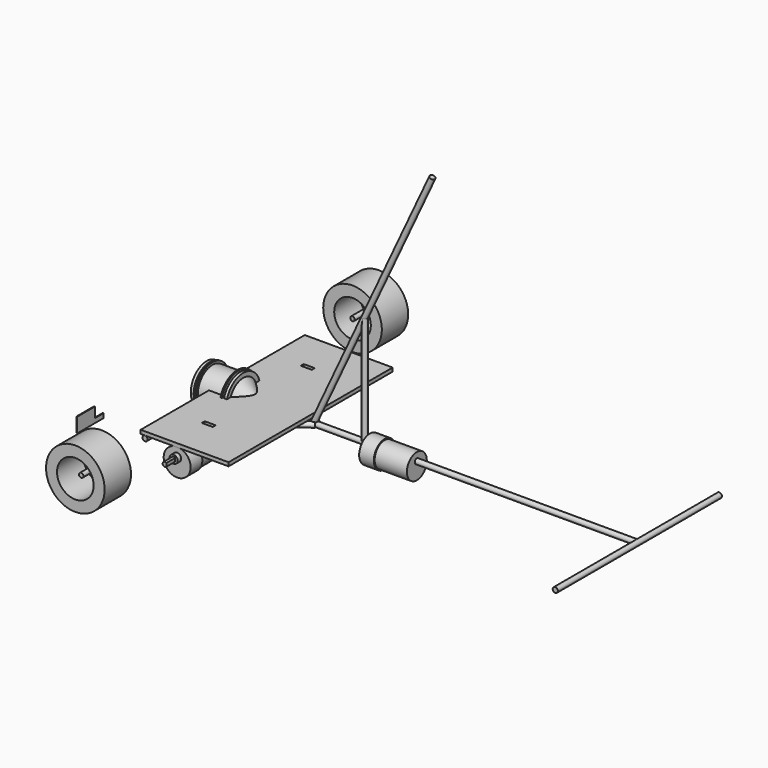
from build123d import *

# Parameters (mm, degrees)
CYLINDER001_R               = 3.5
CYLINDER001_DEPTH           = 280
CYLINDER001_ROLL_ANGLE      = 90
CYLINDER003_R               = 3.5
CYLINDER003_DEPTH           = 150
CYLINDER003_PITCH_ANGLE     = 90
CYLINDER003_PLACEMENT_ANGLE = 36
CYLINDER002_R               = 3.5
CYLINDER002_DEPTH           = 280
CYLINDER002_ROLL_ANGLE      = 90
CYLINDER004_R               = 3.5
CYLINDER004_DEPTH           = 150
CYLINDER004_PITCH_ANGLE     = 90
CYLINDER004_PLACEMENT_ANGLE = -36
CYLINDER005_R               = 3.5
CYLINDER005_DEPTH           = 150
CYLINDER006_R               = 3.5
CYLINDER006_DEPTH           = 384
CYLINDER006_PLACEMENT_ANGLE = 25
CYLINDER_R                  = 3.5
CYLINDER_DEPTH              = 560
CYLINDER_PITCH_ANGLE        = 90
CYLINDER014_R               = 17
CYLINDER014_DEPTH           = 14
CYLINDER015_R               = 5.5
CYLINDER015_DEPTH           = 6
CYLINDER013_R               = 17
CYLINDER013_DEPTH           = 30
BOX002_W                    = 11
BOX002_H                    = 10
BOX002_DEPTH                = 21
CYLINDER016_R               = 3
CYLINDER016_DEPTH           = 15
CYLINDER012_R               = 18.4
CYLINDER012_DEPTH           = 20
FUSION002_ROLL_ANGLE        = 90
CYLINDER019_R               = 17
CYLINDER019_DEPTH           = 14
CYLINDER020_R               = 5.5
CYLINDER020_DEPTH           = 6
CYLINDER018_R               = 17
CYLINDER018_DEPTH           = 30
BOX003_W                    = 11
BOX003_H                    = 10
BOX003_DEPTH                = 21
CYLINDER021_R               = 3
CYLINDER021_DEPTH           = 15
CYLINDER017_R               = 18.4
CYLINDER017_DEPTH           = 20
FUSION003_ROLL_ANGLE        = 90
FUSION003_PLACEMENT_ANGLE   = 180
BOX005_W                    = 15
BOX005_H                    = 5
BOX005_DEPTH                = 16
BOX004_W                    = 15
BOX004_H                    = 5
BOX004_DEPTH                = 16
BOX_W                       = 120
BOX_H                       = 280
BOX_DEPTH                   = 5
CYLINDER024_R               = 3
CYLINDER024_DEPTH           = 35
CYLINDER024_ROLL_ANGLE      = 90
CYLINDER023_R               = 25
CYLINDER023_DEPTH           = 60
CYLINDER023_ROLL_ANGLE      = 90
CYLINDER022_R               = 40
CYLINDER022_DEPTH           = 45
CYLINDER022_ROLL_ANGLE      = 90
CYLINDER027_R               = 3
CYLINDER027_DEPTH           = 35
CYLINDER027_ROLL_ANGLE      = 90
CYLINDER026_R               = 25
CYLINDER026_DEPTH           = 60
CYLINDER026_ROLL_ANGLE      = 90
CYLINDER025_R               = 40
CYLINDER025_DEPTH           = 45
CYLINDER025_ROLL_ANGLE      = 90
FUSION005_PLACEMENT_ANGLE   = 180
BOX007_W                    = 10
BOX007_H                    = 15
BOX007_DEPTH                = 14
BOX006_W                    = 1
BOX006_H                    = 45
BOX006_DEPTH                = 20
CYLINDER030_R               = 17
CYLINDER030_DEPTH           = 14
CYLINDER031_R               = 5.5
CYLINDER031_DEPTH           = 6
CYLINDER029_R               = 17
CYLINDER029_DEPTH           = 30
BOX008_W                    = 11
BOX008_H                    = 10
BOX008_DEPTH                = 21
CYLINDER032_R               = 3
CYLINDER032_DEPTH           = 15
CYLINDER028_R               = 18.4
CYLINDER028_DEPTH           = 20
FUSION006_ROLL_ANGLE        = 90
FUSION006_PLACEMENT_ANGLE   = -90
CYLINDER040_R               = 23
CYLINDER040_DEPTH           = 50
CYLINDER040_PITCH_ANGLE     = 90
CYLINDER039_R               = 25
CYLINDER039_DEPTH           = 34
CYLINDER039_PITCH_ANGLE     = 90
CYLINDER038_R               = 28
CYLINDER038_DEPTH           = 2
CYLINDER038_PITCH_ANGLE     = 90
CYLINDER037_R               = 25
CYLINDER037_DEPTH           = 2
CYLINDER037_PITCH_ANGLE     = 90
CYLINDER036_R               = 27
CYLINDER036_DEPTH           = 4
CYLINDER036_PITCH_ANGLE     = 90
FUSION008_PLACEMENT_ANGLE   = 180
CYLINDER035_R               = 30
CYLINDER035_DEPTH           = 2
CYLINDER035_PITCH_ANGLE     = 90
CYLINDER034_R               = 26
CYLINDER034_DEPTH           = 2
CYLINDER034_PITCH_ANGLE     = 90
CYLINDER033_R               = 29
CYLINDER033_DEPTH           = 4
CYLINDER033_PITCH_ANGLE     = 90
BOX009_W                    = 11
BOX009_H                    = 10
BOX009_DEPTH                = 21
CYLINDER041_R               = 3
CYLINDER041_DEPTH           = 15
CUT009_PITCH_ANGLE          = 90
CONE_PITCH_ANGLE            = -90
BOX012_W                    = 50
BOX012_H                    = 2
BOX012_DEPTH                = 46
BOX012_ROLL_ANGLE           = 45
BOX013_W                    = 50
BOX013_H                    = 2
BOX013_DEPTH                = 46
BOX013_ROLL_ANGLE           = -45
BOX011_W                    = 50
BOX011_H                    = 2
BOX011_DEPTH                = 46
BOX011_ROLL_ANGLE           = 90
BOX010_W                    = 50
BOX010_H                    = 2
BOX010_DEPTH                = 46


with BuildPart() as obj1:
    # Cylinder001 → Cylinder001 (new body)
    with BuildSketch(Plane.XY):
        Circle(CYLINDER001_R)
    extrude(amount=CYLINDER001_DEPTH)


with BuildPart() as obj1_1:
    # Cylinder001 roll: moved
    add(obj1.part.rotate(Axis((0, 0, 0), (1, 0, 0)), CYLINDER001_ROLL_ANGLE))


with BuildPart() as obj1_2:
    # Cylinder001 placement: moved
    add(obj1_1.part.moved(Location((0, 140, 0))))


with BuildPart() as soporte_derecho:
    # Cylinder003 → Cylinder003 (new body)
    with BuildSketch(Plane.XY):
        Circle(CYLINDER003_R)
    extrude(amount=CYLINDER003_DEPTH)


with BuildPart() as soporte_derecho_1:
    # Cylinder003 pitch: moved
    add(soporte_derecho.part.rotate(Axis((0, 0, 0), (0, 1, 0)), CYLINDER003_PITCH_ANGLE))


with BuildPart() as soporte_derecho_2:
    # Cylinder003 placement: moved
    add(soporte_derecho_1.part.moved(Location((0, -90, 0))).rotate(Axis((0, -90, 0), (0, 0, 1)), CYLINDER003_PLACEMENT_ANGLE))


with BuildPart() as obj2:
    # Cylinder002 → Cylinder002 (new body)
    with BuildSketch(Plane.XY):
        Circle(CYLINDER002_R)
    extrude(amount=CYLINDER002_DEPTH)


with BuildPart() as obj2_1:
    # Cylinder002 roll: moved
    add(obj2.part.rotate(Axis((0, 0, 0), (1, 0, 0)), CYLINDER002_ROLL_ANGLE))


with BuildPart() as obj2_2:
    # Cylinder002 placement: moved
    add(obj2_1.part.moved(Location((560, 140, 0))))


with BuildPart() as soporte_izquierdo:
    # Cylinder004 → Cylinder004 (new body)
    with BuildSketch(Plane.XY):
        Circle(CYLINDER004_R)
    extrude(amount=CYLINDER004_DEPTH)


with BuildPart() as soporte_izquierdo_1:
    # Cylinder004 pitch: moved
    add(soporte_izquierdo.part.rotate(Axis((0, 0, 0), (0, 1, 0)), CYLINDER004_PITCH_ANGLE))


with BuildPart() as soporte_izquierdo_2:
    # Cylinder004 placement: moved
    add(soporte_izquierdo_1.part.moved(Location((0, 90, 0))).rotate(Axis((0, 90, 0), (0, 0, 1)), CYLINDER004_PLACEMENT_ANGLE))


with BuildPart() as obj3:
    # Cylinder005 → Cylinder005 (new body)
    with BuildSketch(Plane(origin=(188, 0, 0), x_dir=(1, 0, 0), z_dir=(0, 0, 1))):
        Circle(CYLINDER005_R)
    extrude(amount=CYLINDER005_DEPTH)


with BuildPart() as obj4:
    # Cylinder006 → Cylinder006 (new body)
    with BuildSketch(Plane.XY):
        Circle(CYLINDER006_R)
    extrude(amount=CYLINDER006_DEPTH)


with BuildPart() as obj4_1:
    # Cylinder006 placement: moved
    add(obj4.part.moved(Location((118, 0, 0))).rotate(Axis((118, 0, 0), (0, 1, 0)), CYLINDER006_PLACEMENT_ANGLE))


with BuildPart() as obj5:
    # Cylinder → Cylinder (new body)
    with BuildSketch(Plane.XY):
        Circle(CYLINDER_R)
    extrude(amount=CYLINDER_DEPTH)


with BuildPart() as obj5_1:
    # Cylinder pitch: moved
    add(obj5.part.rotate(Axis((0, 0, 0), (0, 1, 0)), CYLINDER_PITCH_ANGLE))


with BuildPart() as obj5_2:
    # Cylinder placement: moved
    add(obj5_1.part)

    # Fusion: union obj1, Soporte Derecho, obj2, Soporte Izquierdo, obj3, obj4
    add(obj1_2.part)
    add(soporte_derecho_2.part)
    add(obj2_2.part)
    add(soporte_izquierdo_2.part)
    add(obj3.part)
    add(obj4_1.part)


with BuildPart() as encoder001:
    # Cylinder014 → Cylinder014 (new body)
    with BuildSketch(Plane(origin=(0, -298, 0), x_dir=(1, 0, 0), z_dir=(0, 0, 1))):
        Circle(CYLINDER014_R)
    extrude(amount=CYLINDER014_DEPTH)


with BuildPart() as cilindro002:
    # Cylinder015 → Cylinder015 (new body)
    with BuildSketch(Plane(origin=(0, -292, 64), x_dir=(1, 0, 0), z_dir=(0, 0, 1))):
        Circle(CYLINDER015_R)
    extrude(amount=CYLINDER015_DEPTH)


with BuildPart() as motor001:
    # Cylinder013 → Cylinder013 (new body)
    with BuildSketch(Plane(origin=(0, -298, 14), x_dir=(1, 0, 0), z_dir=(0, 0, 1))):
        Circle(CYLINDER013_R)
    extrude(amount=CYLINDER013_DEPTH)


with BuildPart() as cubo001:
    # Box002 → Box002 (new body)
    with BuildSketch(Plane(origin=(2, -191, -2), x_dir=(1, 0, 0), z_dir=(0, 0, 1))):
        with Locations((5.5, 5)):
            Rectangle(BOX002_W, BOX002_H)
    extrude(amount=BOX002_DEPTH)


with BuildPart() as cut001:
    # Cylinder016 → Cylinder016 (new body)
    with BuildSketch(Plane(origin=(0, -186, 0), x_dir=(1, 0, 0), z_dir=(0, 0, 1))):
        Circle(CYLINDER016_R)
    extrude(amount=CYLINDER016_DEPTH)

    # Cut001: cut Cubo001
    add(cubo001.part, mode=Mode.SUBTRACT)


with BuildPart() as cut001_1:
    # Cut001 placement: moved
    add(cut001.part.moved(Location((0, -106, 70))))


with BuildPart() as obj6:
    # Cylinder012 → Cylinder012 (new body)
    with BuildSketch(Plane(origin=(0, -298, 44), x_dir=(1, 0, 0), z_dir=(0, 0, 1))):
        Circle(CYLINDER012_R)
    extrude(amount=CYLINDER012_DEPTH)

    # Fusion002: union Encoder001, Cilindro002, Motor001, Cut001
    add(encoder001.part)
    add(cilindro002.part)
    add(motor001.part)
    add(cut001_1.part)


with BuildPart() as obj6_1:
    # Fusion002 roll: moved
    add(obj6.part.rotate(Axis((0, 0, 0), (1, 0, 0)), FUSION002_ROLL_ANGLE))


with BuildPart() as obj6_2:
    # Fusion002 placement: moved
    add(obj6_1.part.moved(Location((43, -75, 283))))


with BuildPart() as encoder002:
    # Cylinder019 → Cylinder019 (new body)
    with BuildSketch(Plane(origin=(0, -298, 0), x_dir=(1, 0, 0), z_dir=(0, 0, 1))):
        Circle(CYLINDER019_R)
    extrude(amount=CYLINDER019_DEPTH)


with BuildPart() as cilindro004:
    # Cylinder020 → Cylinder020 (new body)
    with BuildSketch(Plane(origin=(0, -292, 64), x_dir=(1, 0, 0), z_dir=(0, 0, 1))):
        Circle(CYLINDER020_R)
    extrude(amount=CYLINDER020_DEPTH)


with BuildPart() as motor002:
    # Cylinder018 → Cylinder018 (new body)
    with BuildSketch(Plane(origin=(0, -298, 14), x_dir=(1, 0, 0), z_dir=(0, 0, 1))):
        Circle(CYLINDER018_R)
    extrude(amount=CYLINDER018_DEPTH)


with BuildPart() as cubo002:
    # Box003 → Box003 (new body)
    with BuildSketch(Plane(origin=(2, -191, -2), x_dir=(1, 0, 0), z_dir=(0, 0, 1))):
        with Locations((5.5, 5)):
            Rectangle(BOX003_W, BOX003_H)
    extrude(amount=BOX003_DEPTH)


with BuildPart() as cut002:
    # Cylinder021 → Cylinder021 (new body)
    with BuildSketch(Plane(origin=(0, -186, 0), x_dir=(1, 0, 0), z_dir=(0, 0, 1))):
        Circle(CYLINDER021_R)
    extrude(amount=CYLINDER021_DEPTH)

    # Cut002: cut Cubo002
    add(cubo002.part, mode=Mode.SUBTRACT)


with BuildPart() as cut002_1:
    # Cut002 placement: moved
    add(cut002.part.moved(Location((0, -106, 70))))


with BuildPart() as obj7:
    # Cylinder017 → Cylinder017 (new body)
    with BuildSketch(Plane(origin=(0, -298, 44), x_dir=(1, 0, 0), z_dir=(0, 0, 1))):
        Circle(CYLINDER017_R)
    extrude(amount=CYLINDER017_DEPTH)

    # Fusion003: union Encoder002, Cilindro004, Motor002, Cut002
    add(encoder002.part)
    add(cilindro004.part)
    add(motor002.part)
    add(cut002_1.part)


with BuildPart() as obj7_1:
    # Fusion003 roll: moved
    add(obj7.part.rotate(Axis((0, 0, 0), (1, 0, 0)), FUSION003_ROLL_ANGLE))


with BuildPart() as obj7_2:
    # Fusion003 placement: moved
    add(obj7_1.part.moved(Location((43, 75, 283))).rotate(Axis((43, 75, 283), (0, 0, 1)), FUSION003_PLACEMENT_ANGLE))


with BuildPart() as cubo004:
    # Box005 → Box005 (new body)
    with BuildSketch(Plane(origin=(35, 82, 69), x_dir=(1, 0, 0), z_dir=(0, 0, 1))):
        with Locations((7.5, 2.5)):
            Rectangle(BOX005_W, BOX005_H)
    extrude(amount=BOX005_DEPTH)


with BuildPart() as cubo003:
    # Box004 → Box004 (new body)
    with BuildSketch(Plane(origin=(35, -87, 68), x_dir=(1, 0, 0), z_dir=(0, 0, 1))):
        with Locations((7.5, 2.5)):
            Rectangle(BOX004_W, BOX004_H)
    extrude(amount=BOX004_DEPTH)


with BuildPart() as obj8:
    # Box → Box (new body)
    with BuildSketch(Plane(origin=(-6, -140, 73.5), x_dir=(1, 0, 0), z_dir=(0, 0, 1))):
        with Locations((60, 140)):
            Rectangle(BOX_W, BOX_H)
    extrude(amount=BOX_DEPTH)

    # Cut003: cut Cubo003
    add(cubo003.part, mode=Mode.SUBTRACT)

    # Cut004: cut Cubo004
    add(cubo004.part, mode=Mode.SUBTRACT)


with BuildPart() as obj8_1:
    # Cut004 placement: moved
    add(obj8.part.moved(Location((0, 0, -70))))


with BuildPart() as cilindro007:
    # Cylinder024 → Cylinder024 (new body)
    with BuildSketch(Plane.XY):
        Circle(CYLINDER024_R)
    extrude(amount=CYLINDER024_DEPTH)


with BuildPart() as cilindro007_1:
    # Cylinder024 roll: moved
    add(cilindro007.part.rotate(Axis((0, 0, 0), (1, 0, 0)), CYLINDER024_ROLL_ANGLE))


with BuildPart() as cilindro007_2:
    # Cylinder024 placement: moved
    add(cilindro007_1.part.moved(Location((0, -214, 0))))


with BuildPart() as cilindro006:
    # Cylinder023 → Cylinder023 (new body)
    with BuildSketch(Plane.XY):
        Circle(CYLINDER023_R)
    extrude(amount=CYLINDER023_DEPTH)


with BuildPart() as cilindro006_1:
    # Cylinder023 roll: moved
    add(cilindro006.part.rotate(Axis((0, 0, 0), (1, 0, 0)), CYLINDER023_ROLL_ANGLE))


with BuildPart() as cilindro006_2:
    # Cylinder023 placement: moved
    add(cilindro006_1.part.moved(Location((0, -207, 0))))


with BuildPart() as rueda_derecha:
    # Cylinder022 → Cylinder022 (new body)
    with BuildSketch(Plane.XY):
        Circle(CYLINDER022_R)
    extrude(amount=CYLINDER022_DEPTH)


with BuildPart() as rueda_derecha_1:
    # Cylinder022 roll: moved
    add(rueda_derecha.part.rotate(Axis((0, 0, 0), (1, 0, 0)), CYLINDER022_ROLL_ANGLE))


with BuildPart() as rueda_derecha_2:
    # Cylinder022 placement: moved
    add(rueda_derecha_1.part.moved(Location((0, -214, 0))))

    # Cut: cut Cilindro006
    add(cilindro006_2.part, mode=Mode.SUBTRACT)

    # Fusion004: union Cilindro007
    add(cilindro007_2.part)


with BuildPart() as cilindro010:
    # Cylinder027 → Cylinder027 (new body)
    with BuildSketch(Plane.XY):
        Circle(CYLINDER027_R)
    extrude(amount=CYLINDER027_DEPTH)


with BuildPart() as cilindro010_1:
    # Cylinder027 roll: moved
    add(cilindro010.part.rotate(Axis((0, 0, 0), (1, 0, 0)), CYLINDER027_ROLL_ANGLE))


with BuildPart() as cilindro010_2:
    # Cylinder027 placement: moved
    add(cilindro010_1.part.moved(Location((0, -214, 0))))


with BuildPart() as cilindro009:
    # Cylinder026 → Cylinder026 (new body)
    with BuildSketch(Plane.XY):
        Circle(CYLINDER026_R)
    extrude(amount=CYLINDER026_DEPTH)


with BuildPart() as cilindro009_1:
    # Cylinder026 roll: moved
    add(cilindro009.part.rotate(Axis((0, 0, 0), (1, 0, 0)), CYLINDER026_ROLL_ANGLE))


with BuildPart() as cilindro009_2:
    # Cylinder026 placement: moved
    add(cilindro009_1.part.moved(Location((0, -207, 0))))


with BuildPart() as rueda_izquierda:
    # Cylinder025 → Cylinder025 (new body)
    with BuildSketch(Plane.XY):
        Circle(CYLINDER025_R)
    extrude(amount=CYLINDER025_DEPTH)


with BuildPart() as rueda_izquierda_1:
    # Cylinder025 roll: moved
    add(rueda_izquierda.part.rotate(Axis((0, 0, 0), (1, 0, 0)), CYLINDER025_ROLL_ANGLE))


with BuildPart() as rueda_izquierda_2:
    # Cylinder025 placement: moved
    add(rueda_izquierda_1.part.moved(Location((0, -214, 0))))

    # Cut005: cut Cilindro009
    add(cilindro009_2.part, mode=Mode.SUBTRACT)

    # Fusion005: union Cilindro010
    add(cilindro010_2.part)


with BuildPart() as rueda_izquierda_3:
    # Fusion005 placement: moved
    add(rueda_izquierda_2.part.rotate(Axis((0, 0, 0), (0, 0, 1)), FUSION005_PLACEMENT_ANGLE))


with BuildPart() as cubo005:
    # Box007 → Box007 (new body)
    with BuildSketch(Plane(origin=(-4, -227, 60), x_dir=(1, 0, 0), z_dir=(0, 0, 1))):
        with Locations((5, 7.5)):
            Rectangle(BOX007_W, BOX007_H)
    extrude(amount=BOX007_DEPTH)


with BuildPart() as cut006:
    # Box006 → Box006 (new body)
    with BuildSketch(Plane(origin=(0, -257, 54), x_dir=(1, 0, 0), z_dir=(0, 0, 1))):
        with Locations((0.5, 22.5)):
            Rectangle(BOX006_W, BOX006_H)
    extrude(amount=BOX006_DEPTH)

    # Cut006: cut Cubo005
    add(cubo005.part, mode=Mode.SUBTRACT)


with BuildPart() as encoder003:
    # Cylinder030 → Cylinder030 (new body)
    with BuildSketch(Plane(origin=(0, -298, 0), x_dir=(1, 0, 0), z_dir=(0, 0, 1))):
        Circle(CYLINDER030_R)
    extrude(amount=CYLINDER030_DEPTH)


with BuildPart() as cilindro011:
    # Cylinder031 → Cylinder031 (new body)
    with BuildSketch(Plane(origin=(0, -292, 64), x_dir=(1, 0, 0), z_dir=(0, 0, 1))):
        Circle(CYLINDER031_R)
    extrude(amount=CYLINDER031_DEPTH)


with BuildPart() as motor003:
    # Cylinder029 → Cylinder029 (new body)
    with BuildSketch(Plane(origin=(0, -298, 14), x_dir=(1, 0, 0), z_dir=(0, 0, 1))):
        Circle(CYLINDER029_R)
    extrude(amount=CYLINDER029_DEPTH)


with BuildPart() as cubo006:
    # Box008 → Box008 (new body)
    with BuildSketch(Plane(origin=(2, -191, -2), x_dir=(1, 0, 0), z_dir=(0, 0, 1))):
        with Locations((5.5, 5)):
            Rectangle(BOX008_W, BOX008_H)
    extrude(amount=BOX008_DEPTH)


with BuildPart() as cut007:
    # Cylinder032 → Cylinder032 (new body)
    with BuildSketch(Plane(origin=(0, -186, 0), x_dir=(1, 0, 0), z_dir=(0, 0, 1))):
        Circle(CYLINDER032_R)
    extrude(amount=CYLINDER032_DEPTH)

    # Cut007: cut Cubo006
    add(cubo006.part, mode=Mode.SUBTRACT)


with BuildPart() as cut007_1:
    # Cut007 placement: moved
    add(cut007.part.moved(Location((0, -106, 70))))


with BuildPart() as obj9:
    # Cylinder028 → Cylinder028 (new body)
    with BuildSketch(Plane(origin=(0, -298, 44), x_dir=(1, 0, 0), z_dir=(0, 0, 1))):
        Circle(CYLINDER028_R)
    extrude(amount=CYLINDER028_DEPTH)

    # Fusion006: union Encoder003, Cilindro011, Motor003, Cut007
    add(encoder003.part)
    add(cilindro011.part)
    add(motor003.part)
    add(cut007_1.part)


with BuildPart() as obj9_1:
    # Fusion006 roll: moved
    add(obj9.part.rotate(Axis((0, 0, 0), (1, 0, 0)), FUSION006_ROLL_ANGLE))


with BuildPart() as obj9_2:
    # Fusion006 placement: moved
    add(obj9_1.part.moved(Location((259, 0, 292))).rotate(Axis((259, 0, 292), (0, 0, 1)), FUSION006_PLACEMENT_ANGLE))


with BuildPart() as corte:
    # Cylinder040 → Cylinder040 (new body)
    with BuildSketch(Plane.XY):
        Circle(CYLINDER040_R)
    extrude(amount=CYLINDER040_DEPTH)


with BuildPart() as corte_1:
    # Cylinder040 pitch: moved
    add(corte.part.rotate(Axis((0, 0, 0), (0, 1, 0)), CYLINDER040_PITCH_ANGLE))


with BuildPart() as corte_2:
    # Cylinder040 placement: moved
    add(corte_1.part.moved(Location((-28, 0, 0))))


with BuildPart() as centro:
    # Cylinder039 → Cylinder039 (new body)
    with BuildSketch(Plane.XY):
        Circle(CYLINDER039_R)
    extrude(amount=CYLINDER039_DEPTH)


with BuildPart() as centro_1:
    # Cylinder039 pitch: moved
    add(centro.part.rotate(Axis((0, 0, 0), (0, 1, 0)), CYLINDER039_PITCH_ANGLE))


with BuildPart() as centro_2:
    # Cylinder039 placement: moved
    add(centro_1.part.moved(Location((-20, 0, 0))))


with BuildPart() as cilindro018:
    # Cylinder038 → Cylinder038 (new body)
    with BuildSketch(Plane.XY):
        Circle(CYLINDER038_R)
    extrude(amount=CYLINDER038_DEPTH)


with BuildPart() as cilindro018_1:
    # Cylinder038 pitch: moved
    add(cilindro018.part.rotate(Axis((0, 0, 0), (0, 1, 0)), CYLINDER038_PITCH_ANGLE))


with BuildPart() as cilindro018_2:
    # Cylinder038 placement: moved
    add(cilindro018_1.part.moved(Location((-4, 0, 0))))


with BuildPart() as cilindro017:
    # Cylinder037 → Cylinder037 (new body)
    with BuildSketch(Plane.XY):
        Circle(CYLINDER037_R)
    extrude(amount=CYLINDER037_DEPTH)


with BuildPart() as cilindro017_1:
    # Cylinder037 pitch: moved
    add(cilindro017.part.rotate(Axis((0, 0, 0), (0, 1, 0)), CYLINDER037_PITCH_ANGLE))


with BuildPart() as cilindro017_2:
    # Cylinder037 placement: moved
    add(cilindro017_1.part.moved(Location((-2, 0, 0))))


with BuildPart() as obj10:
    # Cylinder036 → Cylinder036 (new body)
    with BuildSketch(Plane.XY):
        Circle(CYLINDER036_R)
    extrude(amount=CYLINDER036_DEPTH)


with BuildPart() as obj10_1:
    # Cylinder036 pitch: moved
    add(obj10.part.rotate(Axis((0, 0, 0), (0, 1, 0)), CYLINDER036_PITCH_ANGLE))


with BuildPart() as obj10_2:
    # Cylinder036 placement: moved
    add(obj10_1.part)

    # Fusion008: union Cilindro018, Cilindro017
    add(cilindro018_2.part)
    add(cilindro017_2.part)


with BuildPart() as obj10_3:
    # Fusion008 placement: moved
    add(obj10_2.part.moved(Location((-24, 0, 0))).rotate(Axis((-24, 0, 0), (0, 1, 0)), FUSION008_PLACEMENT_ANGLE))


with BuildPart() as cilindro015:
    # Cylinder035 → Cylinder035 (new body)
    with BuildSketch(Plane.XY):
        Circle(CYLINDER035_R)
    extrude(amount=CYLINDER035_DEPTH)


with BuildPart() as cilindro015_1:
    # Cylinder035 pitch: moved
    add(cilindro015.part.rotate(Axis((0, 0, 0), (0, 1, 0)), CYLINDER035_PITCH_ANGLE))


with BuildPart() as cilindro015_2:
    # Cylinder035 placement: moved
    add(cilindro015_1.part.moved(Location((-4, 0, 0))))


with BuildPart() as cilindro014:
    # Cylinder034 → Cylinder034 (new body)
    with BuildSketch(Plane.XY):
        Circle(CYLINDER034_R)
    extrude(amount=CYLINDER034_DEPTH)


with BuildPart() as cilindro014_1:
    # Cylinder034 pitch: moved
    add(cilindro014.part.rotate(Axis((0, 0, 0), (0, 1, 0)), CYLINDER034_PITCH_ANGLE))


with BuildPart() as cilindro014_2:
    # Cylinder034 placement: moved
    add(cilindro014_1.part.moved(Location((-2, 0, 0))))


with BuildPart() as rin:
    # Cylinder033 → Cylinder033 (new body)
    with BuildSketch(Plane.XY):
        Circle(CYLINDER033_R)
    extrude(amount=CYLINDER033_DEPTH)


with BuildPart() as rin_1:
    # Cylinder033 pitch: moved
    add(rin.part.rotate(Axis((0, 0, 0), (0, 1, 0)), CYLINDER033_PITCH_ANGLE))


with BuildPart() as rin_2:
    # Cylinder033 placement: moved
    add(rin_1.part)

    # Fusion007: union Cilindro015, Cilindro014
    add(cilindro015_2.part)
    add(cilindro014_2.part)


with BuildPart() as rin_3:
    # Fusion007 placement: moved
    add(rin_2.part.moved(Location((18, 0, 0))))

    # Fusion009: union Centro, obj10
    add(centro_2.part)
    add(obj10_3.part)

    # Cut008: cut Corte
    add(corte_2.part, mode=Mode.SUBTRACT)


with BuildPart() as cubo007:
    # Box009 → Box009 (new body)
    with BuildSketch(Plane(origin=(2, -191, -2), x_dir=(1, 0, 0), z_dir=(0, 0, 1))):
        with Locations((5.5, 5)):
            Rectangle(BOX009_W, BOX009_H)
    extrude(amount=BOX009_DEPTH)


with BuildPart() as cut009:
    # Cylinder041 → Cylinder041 (new body)
    with BuildSketch(Plane(origin=(0, -186, 0), x_dir=(1, 0, 0), z_dir=(0, 0, 1))):
        Circle(CYLINDER041_R)
    extrude(amount=CYLINDER041_DEPTH)

    # Cut009: cut Cubo007
    add(cubo007.part, mode=Mode.SUBTRACT)


with BuildPart() as cut009_1:
    # Cut009 pitch: moved
    add(cut009.part.rotate(Axis((0, 0, 0), (0, 1, 0)), CUT009_PITCH_ANGLE))


with BuildPart() as cut009_2:
    # Cut009 placement: moved
    add(cut009_1.part.moved(Location((86, 186, 0))))


with BuildPart() as cono_rin:
    # Cone → Cone (revolve)
    with BuildSketch(Plane.XZ):
        Polygon((0, 0), (5, 0), (23, 20), (0, 20), align=None)
    revolve(axis=Axis((0, 0, 0), (0, 0, 1)))


with BuildPart() as cono_rin_1:
    # Cone pitch: moved
    add(cono_rin.part.rotate(Axis((0, 0, 0), (0, 1, 0)), CONE_PITCH_ANGLE))


with BuildPart() as cono_rin_2:
    # Cone placement: moved
    add(cono_rin_1.part.moved(Location((100, 0, 0))))

    # Cut010: cut Cut009
    add(cut009_2.part, mode=Mode.SUBTRACT)


with BuildPart() as cono_rin_3:
    # Cut010 placement: moved
    add(cono_rin_2.part.moved(Location((-58, 0, 0))))


with BuildPart() as cubo010:
    # Box012 → Box012 (new body)
    with BuildSketch(Plane.XY):
        with Locations((25, 1)):
            Rectangle(BOX012_W, BOX012_H)
    extrude(amount=BOX012_DEPTH)


with BuildPart() as cubo010_1:
    # Box012 roll: moved
    add(cubo010.part.rotate(Axis((0, 0, 0), (1, 0, 0)), BOX012_ROLL_ANGLE))


with BuildPart() as cubo010_2:
    # Box012 placement: moved
    add(cubo010_1.part.moved(Location((-28, 16.5, -16))))


with BuildPart() as cubo011:
    # Box013 → Box013 (new body)
    with BuildSketch(Plane.XY):
        with Locations((25, 1)):
            Rectangle(BOX013_W, BOX013_H)
    extrude(amount=BOX013_DEPTH)


with BuildPart() as cubo011_1:
    # Box013 roll: moved
    add(cubo011.part.rotate(Axis((0, 0, 0), (1, 0, 0)), BOX013_ROLL_ANGLE))


with BuildPart() as cubo011_2:
    # Box013 placement: moved
    add(cubo011_1.part.moved(Location((-28, -16.5, -16))))


with BuildPart() as cubo009:
    # Box011 → Box011 (new body)
    with BuildSketch(Plane.XY):
        with Locations((25, 1)):
            Rectangle(BOX011_W, BOX011_H)
    extrude(amount=BOX011_DEPTH)


with BuildPart() as cubo009_1:
    # Box011 roll: moved
    add(cubo009.part.rotate(Axis((0, 0, 0), (1, 0, 0)), BOX011_ROLL_ANGLE))


with BuildPart() as cubo009_2:
    # Box011 placement: moved
    add(cubo009_1.part.moved(Location((-28, 23, 0))))


with BuildPart() as obj11:
    # Box010 → Box010 (new body)
    with BuildSketch(Plane(origin=(-28, 0, -23), x_dir=(1, 0, 0), z_dir=(0, 0, 1))):
        with Locations((25, 1)):
            Rectangle(BOX010_W, BOX010_H)
    extrude(amount=BOX010_DEPTH)

    # Fusion010: union Cubo010, Cubo011, Cubo009
    add(cubo010_2.part)
    add(cubo011_2.part)
    add(cubo009_2.part)


solid = Compound([obj5_2.part, obj6_2.part, obj7_2.part, obj8_1.part, rueda_derecha_2.part, rueda_izquierda_3.part, cut006.part, obj9_2.part, rin_3.part, cono_rin_3.part, obj11.part])
